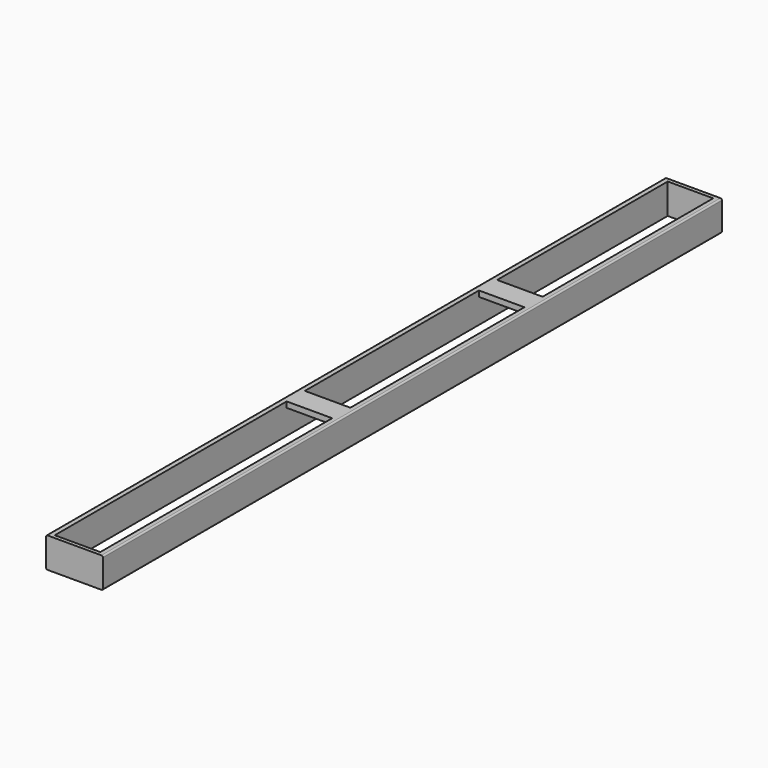
from build123d import *

# Parameters (mm, degrees)
F1_DEPTH = 1020
F2_W     = 60
F2_H     = 382.118
F2_H_2   = 286.796
F2_H_3   = 281.086
F3_DEPTH = 60
F4_DEPTH = 32.5
F5_R     = 2


with BuildPart() as f1:
    # F0 (on Front) → F1 (new body)
    with BuildSketch(Plane.XZ):
        Polygon((30, -20), (37.5, -20), (37.5, 20), (-37.5, 20), (-37.5, -20), (-30, -20), (-30, -12.5), (-30, 12.5), (30, 12.5), (30, -12.5), align=None)
    extrude(amount=F1_DEPTH)

    # F2 (on face) → F3 (cut)
    with BuildSketch(Plane.XY.offset(20)):
        with Locations((0, -823.941)):
            Rectangle(F2_W, F2_H)
        with Locations((0, -459.484)):
            Rectangle(F2_W, F2_H_2)
        with Locations((0, -145.543)):
            Rectangle(F2_W, F2_H_3)
    extrude(amount=-F3_DEPTH, mode=Mode.SUBTRACT)

    # F4 (add): faces of the model
    f4_faces = [f1.faces().sort_by_distance(p)[0] for p in [
        (0, -1017.5, 12.5),
        (0, -2.5, 12.5),
    ]]
    extrude(f4_faces, amount=F4_DEPTH)

    # F5
    f5_edges = [f1.edges().sort_by_distance(p)[0] for p in [
        (-37.5, -510, 20),
        (37.5, -510, 20),
        (-37.5, -510, -20),
        (37.5, -510, -20),
    ]]
    fillet(f5_edges, radius=F5_R)


solid = f1.part
